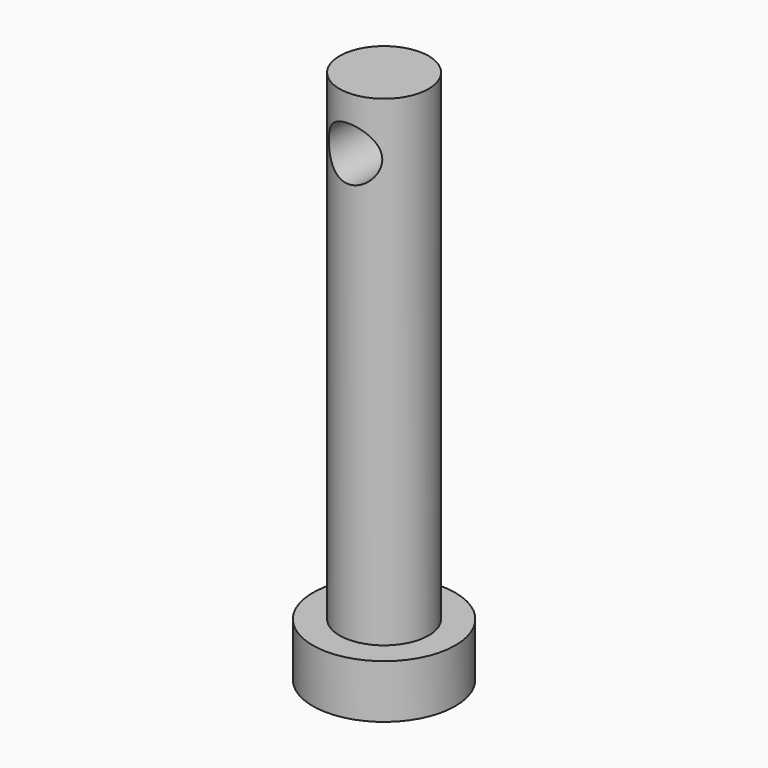
from build123d import *

# Parameters (mm, degrees)
SKETCH_R          = 2.5
PAD_DEPTH         = 30
SKETCH001_R       = 4
PAD001_DEPTH      = 3
SKETCH002_R       = 1.5
POCKET_DEPTH      = 4.001
POCKET_DEPTH_BACK = -4.001


with BuildPart() as part:
    # Sketch → Pad (new body)
    with BuildSketch(Plane.XY):
        Circle(SKETCH_R)
    extrude(amount=PAD_DEPTH)

    # Sketch001 → Pad001 (join)
    with BuildSketch(Plane.XY):
        Circle(SKETCH001_R)
    extrude(amount=PAD001_DEPTH)

    # Sketch002 → Pocket (cut, two sides)
    with BuildSketch(Plane.XZ) as pocket_sk:
        with Locations((0, 27)):
            Circle(SKETCH002_R)
    extrude(amount=-POCKET_DEPTH, mode=Mode.SUBTRACT)
    extrude(pocket_sk.sketch, amount=-POCKET_DEPTH_BACK, mode=Mode.SUBTRACT)


solid = part.part
